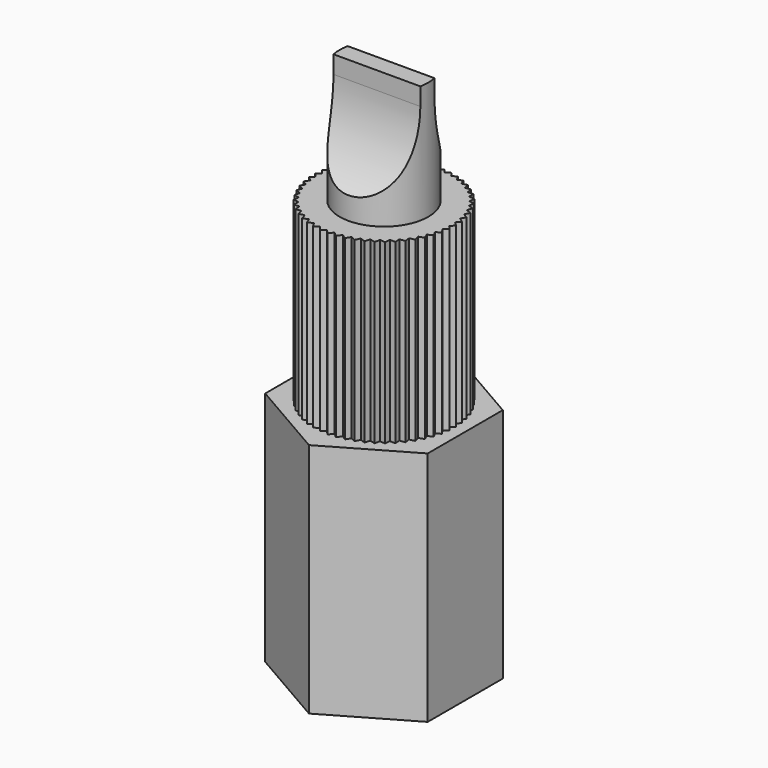
from build123d import *

# Parameters (mm, degrees)
F1_DEPTH  = 20
F2_R      = 6
F3_DEPTH  = 15
F5_DEPTH  = 15
F6_COUNT  = 55
F8_R      = 3.75
F9_DEPTH  = 10
F11_DEPTH = 25


with BuildPart() as f1:
    # F0 (on Top) → F1 (new body)
    with BuildSketch(Plane.XY):
        Polygon((6.875, -3.969283), (6.875, 3.969283), (0, 7.938566), (-6.875, 3.969283), (-6.875, -3.969283), (0, -7.938566), align=None)
    extrude(amount=F1_DEPTH)

    # F2 (on face) → F3 (join)
    with BuildSketch(Plane.XY.offset(20)):
        Circle(F2_R)
    extrude(amount=F3_DEPTH)


with BuildPart() as f5:
    # F4 (on face) → F5 (new body, through all)
    with BuildSketch(Plane.XY.offset(35)):
        with BuildLine():
            ThreePointArc((0.365715, 5.988844), (0, 6), (-0.365715, 5.988844))
            Line((-0.365715, 5.988844), (0, 5.647886))
            Line((0, 5.647886), (0.365715, 5.988844))
        make_face()
    extrude(amount=-F5_DEPTH)


with BuildPart() as f6_1:
    # F6: instance of F5
    add(f5.part.rotate(Axis((0, 0, 35), (0, 0, -1)), 1 * 360 / F6_COUNT))


with BuildPart() as f6_2:
    # F6: instance of F5
    add(f5.part.rotate(Axis((0, 0, 35), (0, 0, -1)), 2 * 360 / F6_COUNT))


with BuildPart() as f6_3:
    # F6: instance of F5
    add(f5.part.rotate(Axis((0, 0, 35), (0, 0, -1)), 3 * 360 / F6_COUNT))


with BuildPart() as f6_4:
    # F6: instance of F5
    add(f5.part.rotate(Axis((0, 0, 35), (0, 0, -1)), 4 * 360 / F6_COUNT))


with BuildPart() as f6_5:
    # F6: instance of F5
    add(f5.part.rotate(Axis((0, 0, 35), (0, 0, -1)), 5 * 360 / F6_COUNT))


with BuildPart() as f6_6:
    # F6: instance of F5
    add(f5.part.rotate(Axis((0, 0, 35), (0, 0, -1)), 6 * 360 / F6_COUNT))


with BuildPart() as f6_7:
    # F6: instance of F5
    add(f5.part.rotate(Axis((0, 0, 35), (0, 0, -1)), 7 * 360 / F6_COUNT))


with BuildPart() as f6_8:
    # F6: instance of F5
    add(f5.part.rotate(Axis((0, 0, 35), (0, 0, -1)), 8 * 360 / F6_COUNT))


with BuildPart() as f6_9:
    # F6: instance of F5
    add(f5.part.rotate(Axis((0, 0, 35), (0, 0, -1)), 9 * 360 / F6_COUNT))


with BuildPart() as f6_10:
    # F6: instance of F5
    add(f5.part.rotate(Axis((0, 0, 35), (0, 0, -1)), 10 * 360 / F6_COUNT))


with BuildPart() as f6_11:
    # F6: instance of F5
    add(f5.part.rotate(Axis((0, 0, 35), (0, 0, -1)), 11 * 360 / F6_COUNT))


with BuildPart() as f6_12:
    # F6: instance of F5
    add(f5.part.rotate(Axis((0, 0, 35), (0, 0, -1)), 12 * 360 / F6_COUNT))


with BuildPart() as f6_13:
    # F6: instance of F5
    add(f5.part.rotate(Axis((0, 0, 35), (0, 0, -1)), 13 * 360 / F6_COUNT))


with BuildPart() as f6_14:
    # F6: instance of F5
    add(f5.part.rotate(Axis((0, 0, 35), (0, 0, -1)), 14 * 360 / F6_COUNT))


with BuildPart() as f6_15:
    # F6: instance of F5
    add(f5.part.rotate(Axis((0, 0, 35), (0, 0, -1)), 15 * 360 / F6_COUNT))


with BuildPart() as f6_16:
    # F6: instance of F5
    add(f5.part.rotate(Axis((0, 0, 35), (0, 0, -1)), 16 * 360 / F6_COUNT))


with BuildPart() as f6_17:
    # F6: instance of F5
    add(f5.part.rotate(Axis((0, 0, 35), (0, 0, -1)), 17 * 360 / F6_COUNT))


with BuildPart() as f6_18:
    # F6: instance of F5
    add(f5.part.rotate(Axis((0, 0, 35), (0, 0, -1)), 18 * 360 / F6_COUNT))


with BuildPart() as f6_19:
    # F6: instance of F5
    add(f5.part.rotate(Axis((0, 0, 35), (0, 0, -1)), 19 * 360 / F6_COUNT))


with BuildPart() as f6_20:
    # F6: instance of F5
    add(f5.part.rotate(Axis((0, 0, 35), (0, 0, -1)), 20 * 360 / F6_COUNT))


with BuildPart() as f6_21:
    # F6: instance of F5
    add(f5.part.rotate(Axis((0, 0, 35), (0, 0, -1)), 21 * 360 / F6_COUNT))


with BuildPart() as f6_22:
    # F6: instance of F5
    add(f5.part.rotate(Axis((0, 0, 35), (0, 0, -1)), 22 * 360 / F6_COUNT))


with BuildPart() as f6_23:
    # F6: instance of F5
    add(f5.part.rotate(Axis((0, 0, 35), (0, 0, -1)), 23 * 360 / F6_COUNT))


with BuildPart() as f6_24:
    # F6: instance of F5
    add(f5.part.rotate(Axis((0, 0, 35), (0, 0, -1)), 24 * 360 / F6_COUNT))


with BuildPart() as f6_25:
    # F6: instance of F5
    add(f5.part.rotate(Axis((0, 0, 35), (0, 0, -1)), 25 * 360 / F6_COUNT))


with BuildPart() as f6_26:
    # F6: instance of F5
    add(f5.part.rotate(Axis((0, 0, 35), (0, 0, -1)), 26 * 360 / F6_COUNT))


with BuildPart() as f6_27:
    # F6: instance of F5
    add(f5.part.rotate(Axis((0, 0, 35), (0, 0, -1)), 27 * 360 / F6_COUNT))


with BuildPart() as f6_28:
    # F6: instance of F5
    add(f5.part.rotate(Axis((0, 0, 35), (0, 0, -1)), 28 * 360 / F6_COUNT))


with BuildPart() as f6_29:
    # F6: instance of F5
    add(f5.part.rotate(Axis((0, 0, 35), (0, 0, -1)), 29 * 360 / F6_COUNT))


with BuildPart() as f6_30:
    # F6: instance of F5
    add(f5.part.rotate(Axis((0, 0, 35), (0, 0, -1)), 30 * 360 / F6_COUNT))


with BuildPart() as f6_31:
    # F6: instance of F5
    add(f5.part.rotate(Axis((0, 0, 35), (0, 0, -1)), 31 * 360 / F6_COUNT))


with BuildPart() as f6_32:
    # F6: instance of F5
    add(f5.part.rotate(Axis((0, 0, 35), (0, 0, -1)), 32 * 360 / F6_COUNT))


with BuildPart() as f6_33:
    # F6: instance of F5
    add(f5.part.rotate(Axis((0, 0, 35), (0, 0, -1)), 33 * 360 / F6_COUNT))


with BuildPart() as f6_34:
    # F6: instance of F5
    add(f5.part.rotate(Axis((0, 0, 35), (0, 0, -1)), 34 * 360 / F6_COUNT))


with BuildPart() as f6_35:
    # F6: instance of F5
    add(f5.part.rotate(Axis((0, 0, 35), (0, 0, -1)), 35 * 360 / F6_COUNT))


with BuildPart() as f6_36:
    # F6: instance of F5
    add(f5.part.rotate(Axis((0, 0, 35), (0, 0, -1)), 36 * 360 / F6_COUNT))


with BuildPart() as f6_37:
    # F6: instance of F5
    add(f5.part.rotate(Axis((0, 0, 35), (0, 0, -1)), 37 * 360 / F6_COUNT))


with BuildPart() as f6_38:
    # F6: instance of F5
    add(f5.part.rotate(Axis((0, 0, 35), (0, 0, -1)), 38 * 360 / F6_COUNT))


with BuildPart() as f6_39:
    # F6: instance of F5
    add(f5.part.rotate(Axis((0, 0, 35), (0, 0, -1)), 39 * 360 / F6_COUNT))


with BuildPart() as f6_40:
    # F6: instance of F5
    add(f5.part.rotate(Axis((0, 0, 35), (0, 0, -1)), 40 * 360 / F6_COUNT))


with BuildPart() as f6_41:
    # F6: instance of F5
    add(f5.part.rotate(Axis((0, 0, 35), (0, 0, -1)), 41 * 360 / F6_COUNT))


with BuildPart() as f6_42:
    # F6: instance of F5
    add(f5.part.rotate(Axis((0, 0, 35), (0, 0, -1)), 42 * 360 / F6_COUNT))


with BuildPart() as f6_43:
    # F6: instance of F5
    add(f5.part.rotate(Axis((0, 0, 35), (0, 0, -1)), 43 * 360 / F6_COUNT))


with BuildPart() as f6_44:
    # F6: instance of F5
    add(f5.part.rotate(Axis((0, 0, 35), (0, 0, -1)), 44 * 360 / F6_COUNT))


with BuildPart() as f6_45:
    # F6: instance of F5
    add(f5.part.rotate(Axis((0, 0, 35), (0, 0, -1)), 45 * 360 / F6_COUNT))


with BuildPart() as f6_46:
    # F6: instance of F5
    add(f5.part.rotate(Axis((0, 0, 35), (0, 0, -1)), 46 * 360 / F6_COUNT))


with BuildPart() as f6_47:
    # F6: instance of F5
    add(f5.part.rotate(Axis((0, 0, 35), (0, 0, -1)), 47 * 360 / F6_COUNT))


with BuildPart() as f6_48:
    # F6: instance of F5
    add(f5.part.rotate(Axis((0, 0, 35), (0, 0, -1)), 48 * 360 / F6_COUNT))


with BuildPart() as f6_49:
    # F6: instance of F5
    add(f5.part.rotate(Axis((0, 0, 35), (0, 0, -1)), 49 * 360 / F6_COUNT))


with BuildPart() as f6_50:
    # F6: instance of F5
    add(f5.part.rotate(Axis((0, 0, 35), (0, 0, -1)), 50 * 360 / F6_COUNT))


with BuildPart() as f6_51:
    # F6: instance of F5
    add(f5.part.rotate(Axis((0, 0, 35), (0, 0, -1)), 51 * 360 / F6_COUNT))


with BuildPart() as f6_52:
    # F6: instance of F5
    add(f5.part.rotate(Axis((0, 0, 35), (0, 0, -1)), 52 * 360 / F6_COUNT))


with BuildPart() as f6_53:
    # F6: instance of F5
    add(f5.part.rotate(Axis((0, 0, 35), (0, 0, -1)), 53 * 360 / F6_COUNT))


with BuildPart() as f6_54:
    # F6: instance of F5
    add(f5.part.rotate(Axis((0, 0, 35), (0, 0, -1)), 54 * 360 / F6_COUNT))


with BuildPart() as f1_1:
    add(f1.part)

    # F7: cut F6_6, F6_8, F6_10, F6_7, F6_1, F6_4, F6_5, F6_3, F6_2, F5, F6_9, F6_11, F6_12, F6_13, F6_14, F6_15, F6_16, F6_17, F6_18, F6_19, F6_20, F6_21, F6_22, F6_23, F6_24, F6_25, F6_26, F6_27, F6_28, F6_29, F6_30, F6_31, F6_32, F6_33, F6_34, F6_35, F6_36, F6_37, F6_38, F6_39, F6_40, F6_41, F6_42, F6_43, F6_44, F6_45, F6_46, F6_47, F6_48, F6_49, F6_50, F6_51, F6_52, F6_53, F6_54
    add(f6_6.part, mode=Mode.SUBTRACT)
    add(f6_8.part, mode=Mode.SUBTRACT)
    add(f6_10.part, mode=Mode.SUBTRACT)
    add(f6_7.part, mode=Mode.SUBTRACT)
    add(f6_1.part, mode=Mode.SUBTRACT)
    add(f6_4.part, mode=Mode.SUBTRACT)
    add(f6_5.part, mode=Mode.SUBTRACT)
    add(f6_3.part, mode=Mode.SUBTRACT)
    add(f6_2.part, mode=Mode.SUBTRACT)
    add(f5.part, mode=Mode.SUBTRACT)
    add(f6_9.part, mode=Mode.SUBTRACT)
    add(f6_11.part, mode=Mode.SUBTRACT)
    add(f6_12.part, mode=Mode.SUBTRACT)
    add(f6_13.part, mode=Mode.SUBTRACT)
    add(f6_14.part, mode=Mode.SUBTRACT)
    add(f6_15.part, mode=Mode.SUBTRACT)
    add(f6_16.part, mode=Mode.SUBTRACT)
    add(f6_17.part, mode=Mode.SUBTRACT)
    add(f6_18.part, mode=Mode.SUBTRACT)
    add(f6_19.part, mode=Mode.SUBTRACT)
    add(f6_20.part, mode=Mode.SUBTRACT)
    add(f6_21.part, mode=Mode.SUBTRACT)
    add(f6_22.part, mode=Mode.SUBTRACT)
    add(f6_23.part, mode=Mode.SUBTRACT)
    add(f6_24.part, mode=Mode.SUBTRACT)
    add(f6_25.part, mode=Mode.SUBTRACT)
    add(f6_26.part, mode=Mode.SUBTRACT)
    add(f6_27.part, mode=Mode.SUBTRACT)
    add(f6_28.part, mode=Mode.SUBTRACT)
    add(f6_29.part, mode=Mode.SUBTRACT)
    add(f6_30.part, mode=Mode.SUBTRACT)
    add(f6_31.part, mode=Mode.SUBTRACT)
    add(f6_32.part, mode=Mode.SUBTRACT)
    add(f6_33.part, mode=Mode.SUBTRACT)
    add(f6_34.part, mode=Mode.SUBTRACT)
    add(f6_35.part, mode=Mode.SUBTRACT)
    add(f6_36.part, mode=Mode.SUBTRACT)
    add(f6_37.part, mode=Mode.SUBTRACT)
    add(f6_38.part, mode=Mode.SUBTRACT)
    add(f6_39.part, mode=Mode.SUBTRACT)
    add(f6_40.part, mode=Mode.SUBTRACT)
    add(f6_41.part, mode=Mode.SUBTRACT)
    add(f6_42.part, mode=Mode.SUBTRACT)
    add(f6_43.part, mode=Mode.SUBTRACT)
    add(f6_44.part, mode=Mode.SUBTRACT)
    add(f6_45.part, mode=Mode.SUBTRACT)
    add(f6_46.part, mode=Mode.SUBTRACT)
    add(f6_47.part, mode=Mode.SUBTRACT)
    add(f6_48.part, mode=Mode.SUBTRACT)
    add(f6_49.part, mode=Mode.SUBTRACT)
    add(f6_50.part, mode=Mode.SUBTRACT)
    add(f6_51.part, mode=Mode.SUBTRACT)
    add(f6_52.part, mode=Mode.SUBTRACT)
    add(f6_53.part, mode=Mode.SUBTRACT)
    add(f6_54.part, mode=Mode.SUBTRACT)

    # F8 (on face) → F9 (join)
    with BuildSketch(Plane.XY.offset(35)):
        Circle(F8_R)
    extrude(amount=F9_DEPTH)

    # F10 (on face) → F11 (cut)
    with BuildSketch(Plane(origin=(-6.875, 0, 0), x_dir=(0, -1, 0), z_dir=(-1, 0, 0))):
        with BuildLine():
            Line((-0.75, 49.5), (-0.75, 50))
            Line((-0.75, 50), (-4.25, 50))
            Line((-4.25, 50), (-4.25, 36.5))
            ThreePointArc((-4.25, 36.5), (-1.673762, 39.586881), (-0.75, 43.5))
            Line((-0.75, 43.5), (-0.75, 49.5))
        make_face()
        with BuildLine():
            Line((0.75, 50), (0.75, 43.5))
            ThreePointArc((0.75, 43.5), (1.673762, 39.586881), (4.25, 36.5))
            Line((4.25, 36.5), (4.25, 50))
            Line((4.25, 50), (0.75, 50))
        make_face()
    extrude(amount=-F11_DEPTH, mode=Mode.SUBTRACT)


solid = f1_1.part
